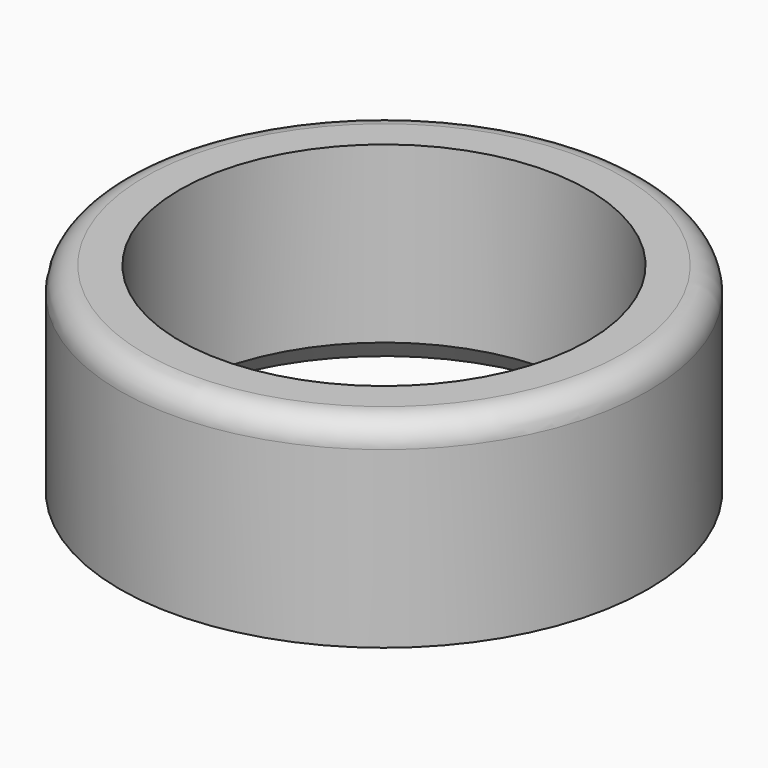
from build123d import *

# Parameters (mm, degrees)
F0_R     = 5.3
F0_R_2   = 4.1
F1_DEPTH = 4
F2_SIZE  = 0.5
F3_R     = 0.5


with BuildPart() as f1:
    # F0 (on Top) → F1 (new body)
    with BuildSketch(Plane.XY):
        Circle(F0_R)
        Circle(F0_R_2, mode=Mode.SUBTRACT)
    extrude(amount=F1_DEPTH)

    # F2
    f2_edges = [f1.edges().sort_by_distance(p)[0] for p in [
        (-4.1, 0, 0),
    ]]
    chamfer(f2_edges, length=F2_SIZE)

    # F3
    f3_edges = [f1.edges().sort_by_distance(p)[0] for p in [
        (-5.3, 0, 4),
    ]]
    fillet(f3_edges, radius=F3_R)


solid = f1.part
